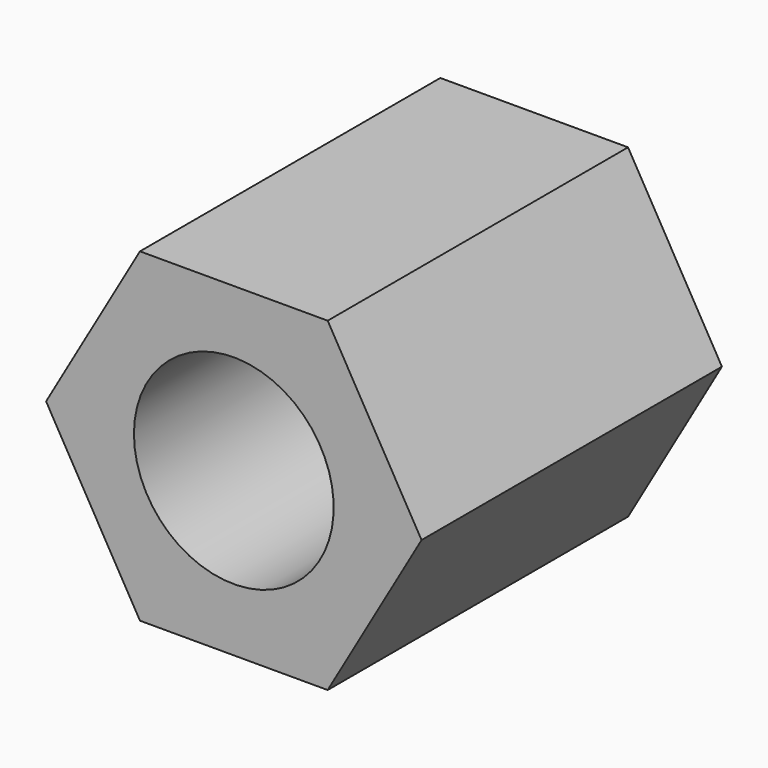
from build123d import *

# Parameters (mm, degrees)
F1_DEPTH = 12.7
F3_D     = 6.7564
F3_DEPTH = 12.7
F3_TIP   = 2.0298273432


with BuildPart() as f1:
    # F0 (on Front) → F1 (new body)
    with BuildSketch(Plane.XZ):
        Polygon((-3.175, 5.499261314), (-6.35, 0), (-3.175, -5.499261314), (3.175, -5.499261314), (6.35, 0), (3.175, 5.499261314), align=None)
    extrude(amount=F1_DEPTH)

    # F3
    with Locations(Plane.XZ.offset(12.7)):
        with Locations((0, 0)):
            Hole(F3_D / 2, depth=F3_DEPTH)
            with Locations((0, 0, -(F3_DEPTH + F3_TIP / 2))):  # 118° drill point
                Cone(0, F3_D / 2, F3_TIP, mode=Mode.SUBTRACT)


solid = f1.part
